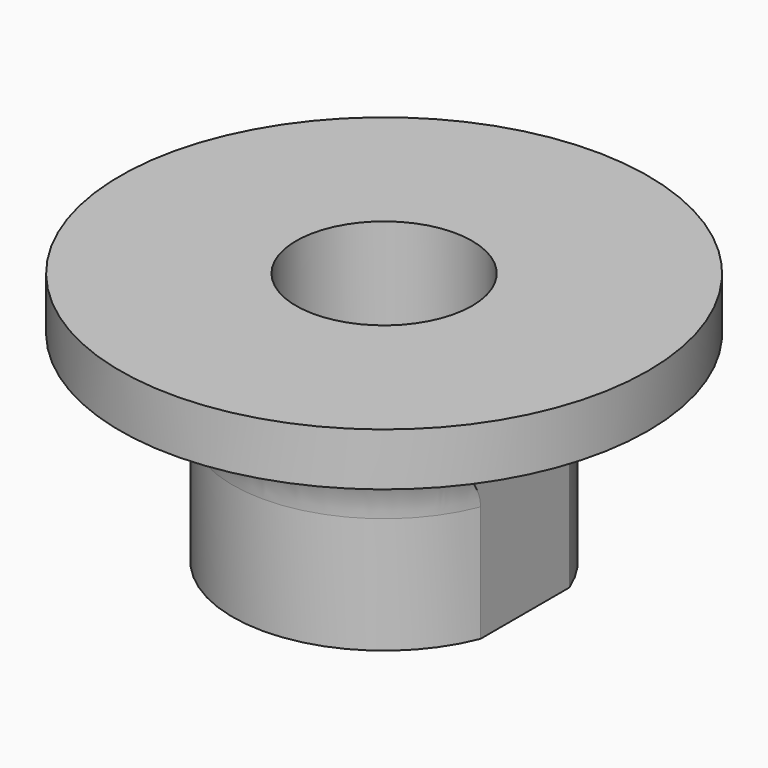
from build123d import *

# Parameters (mm, degrees)
F0_R     = 9.525
F0_R_2   = 3.175
F1_DEPTH = 25.4
F2_W     = 5.595942471
F2_H     = 0.8117107314
F4_W     = 5.7437195435
F4_H     = 10.4512684047
F4_H_2   = 14.192732051
F4_W_2   = 5.8874822214
F4_H_3   = 10.6966430321
F5_DEPTH = 6.985
F6_R     = 1.016


with BuildPart() as f1:
    # F0 (on Top) → F1 (new body)
    with BuildSketch(Plane.XY):
        Circle(F0_R)
        Circle(F0_R_2, mode=Mode.SUBTRACT)
    extrude(amount=-F1_DEPTH)

    # F2 (on Front) → F3 (revolve, cut)
    with BuildSketch(Plane.XZ):
        with BuildLine():
            Line((11.056942471, -4.953), (5.461, -4.953))
            ThreePointArc((5.461, -4.953), (7.5418947367, -7.9335299315), (11.056942471, -7.0071817232))
            Line((11.056942471, -7.0071817232), (11.056942471, -4.953))
        make_face()
        with BuildLine():
            ThreePointArc((11.056942471, -7.0071817232), (11.6165299315, -6.0471052633), (11.811, -4.953))
            ThreePointArc((11.811, -4.953), (8.636, -1.778), (5.461, -4.953))
            Line((5.461, -4.953), (11.056942471, -4.953))
            Line((11.056942471, -4.953), (11.056942471, -7.0071817232))
        make_face()
        Polygon((5.461, -9.9557107314), (5.461, -9.144), (0, -9.144), (0, -34.544), (12.0641607791, -34.544), (12.0641607791, -9.144), (11.056942471, -9.144), (11.056942471, -9.9557107314), align=None)
        with BuildLine():
            ThreePointArc((11.056942471, -7.0071817232), (7.5418947367, -7.9335299315), (5.461, -4.953))
            Line((5.461, -4.953), (5.461, -9.144))
            Line((5.461, -9.144), (11.056942471, -9.144))
            Line((11.056942471, -9.144), (11.056942471, -7.0071817232))
        make_face()
        with Locations((8.2589712355, -9.5498553657)):
            Rectangle(F2_W, F2_H)
    revolve(axis=Axis((0, 0, -25.4), (0, 0, 1)), mode=Mode.SUBTRACT)

    # F4 (on face) → F5 (cut)
    with BuildSketch(Plane(origin=(0, 0, -9.144), x_dir=(1, 0, 0), z_dir=(0, 0, -1))):
        with Locations((-8.3328597717, -5.2256342024)):
            Rectangle(F4_W, F4_H)
        with Locations((-8.3328597717, 7.0963660255)):
            Rectangle(F4_W, F4_H_2)
        with Locations((8.4047411107, 5.3483215161)):
            Rectangle(F4_W_2, F4_H_3)
        Polygon((11.3484822214, 0), (5.461, 0), (5.461, -9.0715084225), (5.461, -9.423006326), (11.6024822214, -9.423006326), (11.6024822214, 0), align=None)
        with BuildLine():
            Line((-5.08, -2.0040261974), (-5.08, 2.0040261974))
            ThreePointArc((-5.08, 2.0040261974), (-5.3649045192, 1.0199610287), (-5.461, 0))
            ThreePointArc((-5.461, 0), (-5.3649045192, -1.0199610287), (-5.08, -2.0040261974))
        make_face()
        with BuildLine():
            ThreePointArc((-5.461, 0), (-5.3649045192, 1.0199610287), (-5.08, 2.0040261974))
            Line((-5.08, 2.0040261974), (-5.08, 14.192732051))
            Line((-5.08, 14.192732051), (-5.461, 14.192732051))
            Line((-5.461, 14.192732051), (-5.461, 0))
        make_face()
        with BuildLine():
            Line((-5.08, -11.2700536847), (-5.08, -2.0040261974))
            ThreePointArc((-5.08, -2.0040261974), (-5.3649045192, -1.0199610287), (-5.461, 0))
            Line((-5.461, 0), (-5.461, -10.4512684047))
            Line((-5.461, -10.4512684047), (-5.461, -11.2700536847))
            Line((-5.461, -11.2700536847), (-5.08, -11.2700536847))
        make_face()
        with BuildLine():
            Line((5.461, -9.0715084225), (5.461, 0))
            ThreePointArc((5.461, 0), (5.3649045192, -1.0199610287), (5.08, -2.0040261974))
            Line((5.08, -2.0040261974), (5.08, -9.0715084225))
            Line((5.08, -9.0715084225), (5.461, -9.0715084225))
        make_face()
        with BuildLine():
            ThreePointArc((5.08, -2.0040261974), (5.3649045192, -1.0199610287), (5.461, 0))
            ThreePointArc((5.461, 0), (5.3649045192, 1.0199610287), (5.08, 2.0040261974))
            Line((5.08, 2.0040261974), (5.08, -2.0040261974))
        make_face()
        with BuildLine():
            ThreePointArc((5.08, 2.0040261974), (5.3649045192, 1.0199610287), (5.461, 0))
            Line((5.461, 0), (5.461, 10.6966430321))
            Line((5.461, 10.6966430321), (5.08, 10.6966430321))
            Line((5.08, 10.6966430321), (5.08, 2.0040261974))
        make_face()
    extrude(amount=-F5_DEPTH, mode=Mode.SUBTRACT)

    # F6
    f6_edges = [f1.edges().sort_by_distance(p)[0] for p in [
        (5.08, 0, -2.159),
        (-5.08, 0, -2.159),
    ]]
    fillet(f6_edges, radius=F6_R)


solid = f1.part
